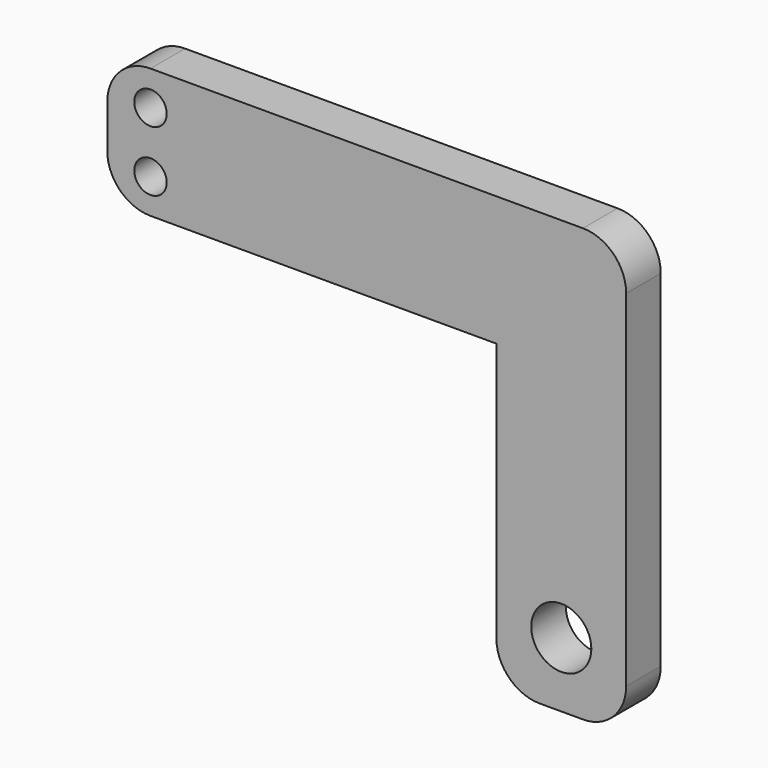
from build123d import *

# Parameters (mm, degrees)
F1_DEPTH = 1
F3_R     = 0.375
F3_R_2   = 0.694729
F4_DEPTH = 25


with BuildPart() as f1:
    # F0 (on Front) → F1 (new body)
    with BuildSketch(Plane.XZ):
        with BuildLine():
            ThreePointArc((0, 6.145281), (0.292893, 5.438174), (1, 5.145281))
            Line((1, 5.145281), (9, 5.145281))
            Line((9, 5.145281), (9, -0.854719))
            ThreePointArc((9, -0.854719), (9.292893, -1.561826), (10, -1.854719))
            Line((10, -1.854719), (11, -1.854719))
            ThreePointArc((11, -1.854719), (11.707107, -1.561826), (12, -0.854719))
            Line((12, -0.854719), (12, 7.145281))
            ThreePointArc((12, 7.145281), (11.707107, 7.852388), (11, 8.145281))
            Line((11, 8.145281), (1, 8.145281))
            ThreePointArc((1, 8.145281), (0.292893, 7.852388), (0, 7.145281))
            Line((0, 7.145281), (0, 6.145281))
        make_face()
    extrude(amount=F1_DEPTH)

    # F3 (on face) → F4 (cut)
    with BuildSketch(Plane.XZ.offset(1)):
        with Locations((1, 7.345281)):
            Circle(F3_R)
        with Locations((1, 5.945281)):
            Circle(F3_R)
        with Locations((10.5, -0.354719)):
            Circle(F3_R_2)
    extrude(amount=-F4_DEPTH, mode=Mode.SUBTRACT)


solid = f1.part
